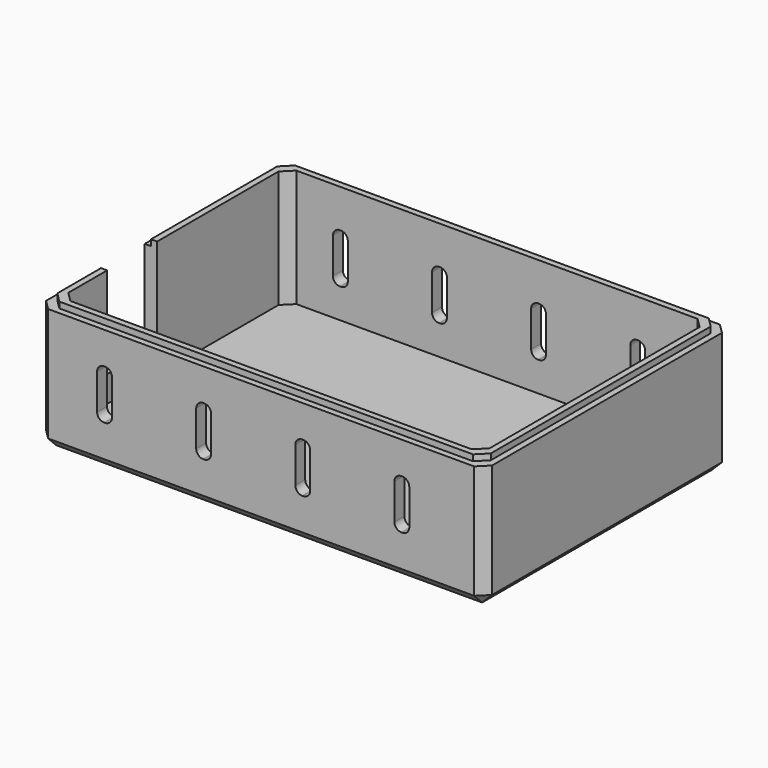
from build123d import *

# Parameters (mm, degrees)
F0_W      = 114.3
F0_H      = 78.74
F1_DEPTH  = 3.175
F2_W      = 114.3
F2_H      = 78.74
F2_W_2    = 107.95
F2_H_2    = 72.39
F3_DEPTH  = 28.575
F4_W      = 16.002
F4_H      = 21.844
F5_DEPTH  = 3.175
F7_DEPTH  = 1.5494
F8_SIZE   = 2.54
F9_SIZE   = 2.54
F10_SIZE  = 2.54
F11_W     = 3.81
F11_H     = 12.7
F12_DEPTH = 78.741
F13_R     = 1.778


with BuildPart() as f1:
    # F0 (on Top) → F1 (new body)
    with BuildSketch(Plane.XY):
        Rectangle(F0_W, F0_H)
    extrude(amount=F1_DEPTH)

    # F2 (on face) → F3 (join)
    with BuildSketch(Plane.XY.offset(3.175)):
        Rectangle(F2_W, F2_H)
        Rectangle(F2_W_2, F2_H_2, mode=Mode.SUBTRACT)
    extrude(amount=F3_DEPTH)

    # F4 (on face) → F5 (cut, through all)
    with BuildSketch(Plane(origin=(-57.15, 0, 0), x_dir=(0, -1, 0), z_dir=(-1, 0, 0))):
        with Locations((13.2334, 20.828)):
            Rectangle(F4_W, F4_H)
    extrude(amount=-F5_DEPTH, mode=Mode.SUBTRACT)

    # F6 (on face) → F7 (join)
    with BuildSketch(Plane.XY.offset(31.75)):
        Polygon((55.5498, 37.7698), (-55.5498, 37.7698), (-55.5498, -5.2324), (-53.975, -5.2324), (-53.975, 36.195), (53.975, 36.195), (53.975, -36.195), (-53.975, -36.195), (-53.975, -21.2344), (-55.5498, -21.2344), (-55.5498, -37.7698), (55.5498, -37.7698), align=None)
    extrude(amount=F7_DEPTH)

    # F8
    f8_edges = [f1.edges().sort_by_distance(p)[0] for p in [
        (57.15, 39.37, 15.875),
        (57.15, -39.37, 15.875),
        (-57.15, -39.37, 15.875),
        (-57.15, 39.37, 15.875),
        (0, 39.37, 0),
        (-57.15, 0, 0),
        (0, -39.37, 0),
        (57.15, 0, 0),
    ]]
    chamfer(f8_edges, length=F8_SIZE)

    # F9
    f9_edges = [f1.edges().sort_by_distance(p)[0] for p in [
        (-53.975, 36.195, 18.2372),
        (53.975, 36.195, 18.2372),
        (53.975, -36.195, 18.2372),
        (-53.975, -36.195, 18.2372),
    ]]
    chamfer(f9_edges, length=F9_SIZE)

    # F10
    f10_edges = [f1.edges().sort_by_distance(p)[0] for p in [
        (55.5498, 37.7698, 32.5247),
        (-55.5498, 37.7698, 32.5247),
        (-55.5498, -37.7698, 32.5247),
        (55.5498, -37.7698, 32.5247),
    ]]
    chamfer(f10_edges, length=F10_SIZE)

    # F11 (on face) → F12 (cut, through all)
    with BuildSketch(Plane.XZ.offset(39.37)):
        with Locations((-40.132, 17.145)):
            Rectangle(F11_W, F11_H)
        with Locations((-14.732, 17.145)):
            Rectangle(F11_W, F11_H)
        with Locations((10.668, 17.145)):
            Rectangle(F11_W, F11_H)
        with Locations((36.068, 17.145)):
            Rectangle(F11_W, F11_H)
    extrude(amount=-F12_DEPTH, mode=Mode.SUBTRACT)

    # F13
    f13_edges = [f1.edges().sort_by_distance(p)[0] for p in [
        (-42.037, -37.7825, 23.495),
        (-16.637, -37.7825, 23.495),
        (8.763, -37.7825, 23.495),
        (34.163, -37.7825, 23.495),
        (-38.227, -37.7825, 23.495),
        (-12.827, -37.7825, 23.495),
        (12.573, -37.7825, 23.495),
        (37.973, -37.7825, 23.495),
        (-42.037, -37.7825, 10.795),
        (-16.637, -37.7825, 10.795),
        (8.763, -37.7825, 10.795),
        (34.163, -37.7825, 10.795),
        (-38.227, -37.7825, 10.795),
        (-12.827, -37.7825, 10.795),
        (12.573, -37.7825, 10.795),
        (37.973, -37.7825, 10.795),
        (37.973, 37.7825, 23.495),
        (12.573, 37.7825, 23.495),
        (-12.827, 37.7825, 23.495),
        (-38.227, 37.7825, 23.495),
        (34.163, 37.7825, 23.495),
        (8.763, 37.7825, 23.495),
        (-16.637, 37.7825, 23.495),
        (-42.037, 37.7825, 23.495),
        (34.163, 37.7825, 10.795),
        (8.763, 37.7825, 10.795),
        (-16.637, 37.7825, 10.795),
        (-42.037, 37.7825, 10.795),
        (-38.227, 37.7825, 10.795),
        (-12.827, 37.7825, 10.795),
        (12.573, 37.7825, 10.795),
        (37.973, 37.7825, 10.795),
    ]]
    fillet(f13_edges, radius=F13_R)


solid = f1.part
